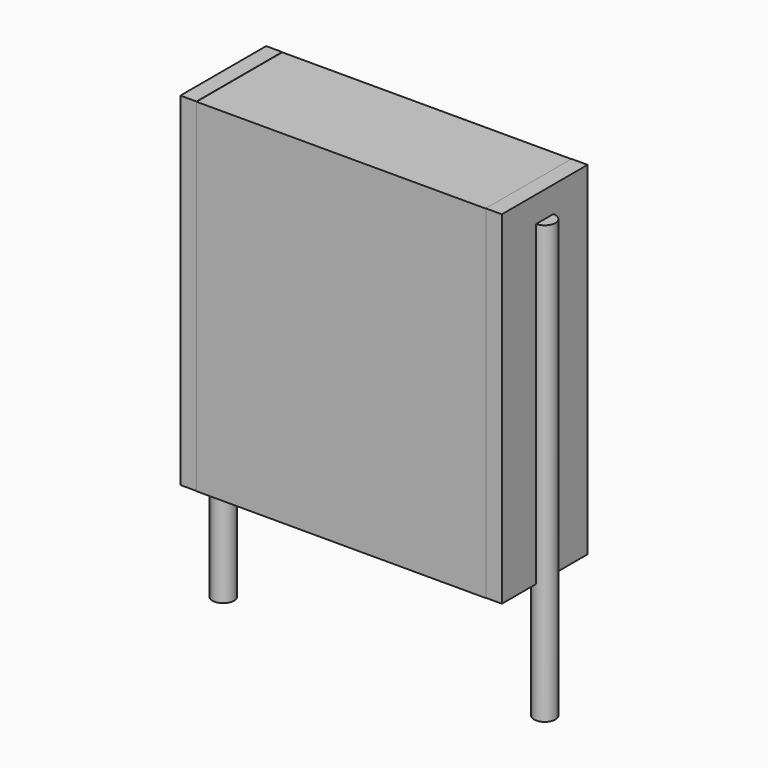
from build123d import *

# Parameters (mm, degrees)
SKETCH_W          = 6.75
SKETCH_H          = 2.5
PAD_DEPTH         = 8
SKETCH001_R       = 0.25
PAD001_DEPTH      = 7
PAD001_DEPTH_BACK = 3.2
SKETCH002_W       = 0.375
SKETCH002_H       = 2.5
PAD002_DEPTH      = 8


with BuildPart() as pad:
    # Sketch → Pad (new body)
    with BuildSketch(Plane.XY.offset(0.1)):
        with Locations((3.75, 0)):
            Rectangle(SKETCH_W, SKETCH_H)
    extrude(amount=PAD_DEPTH)


with BuildPart() as pad001:
    # Sketch001 → Pad001 (new body, two sides)
    with BuildSketch(Plane.XY.offset(0.5)) as pad001_sk:
        Circle(SKETCH001_R)
        with Locations((7.5, 0)):
            Circle(SKETCH001_R)
    extrude(amount=PAD001_DEPTH)
    extrude(pad001_sk.sketch, amount=-PAD001_DEPTH_BACK)


with BuildPart() as pad002:
    # Sketch002 → Pad002 (new body)
    with BuildSketch(Plane.XY.offset(0.105)):
        with Locations((0.1875, 0)):
            Rectangle(SKETCH002_W, SKETCH002_H)
        with Locations((7.3125, 0)):
            Rectangle(SKETCH002_W, SKETCH002_H)
    extrude(amount=PAD002_DEPTH)


solid = Compound([pad.part, pad001.part, pad002.part])
